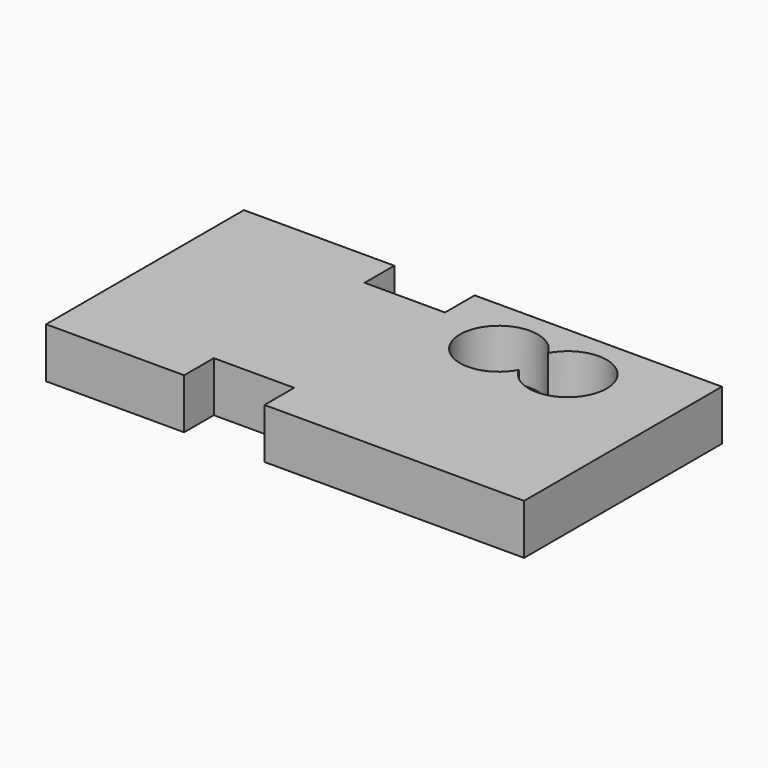
from build123d import *

# Parameters (mm, degrees)
F1_DEPTH = 5


with BuildPart() as f1:
    # F0 (on Top) → F1 (new body)
    with BuildSketch(Plane.XY):
        Polygon((-3.728078, 16.714609), (-18.702438, 16.714609), (-18.702438, -7.900778), (-4.958848, -7.900778), (-4.958848, -4.20847), (3.041152, -4.20847), (3.041152, -7.900778), (28.887311, -7.900778), (28.887311, 16.714609), (4.271922, 16.714609), (4.271922, 13.022301), (-3.728078, 13.022301), align=None)
        with BuildLine():
            ThreePointArc((14.787649, 9.056671), (7.48216, 10.870393), (14.78765, 12.684112))
            ThreePointArc((14.78765, 12.684112), (22.09314, 10.87039), (14.787649, 9.056671))
        make_face(mode=Mode.SUBTRACT)
    extrude(amount=-F1_DEPTH)


solid = f1.part
